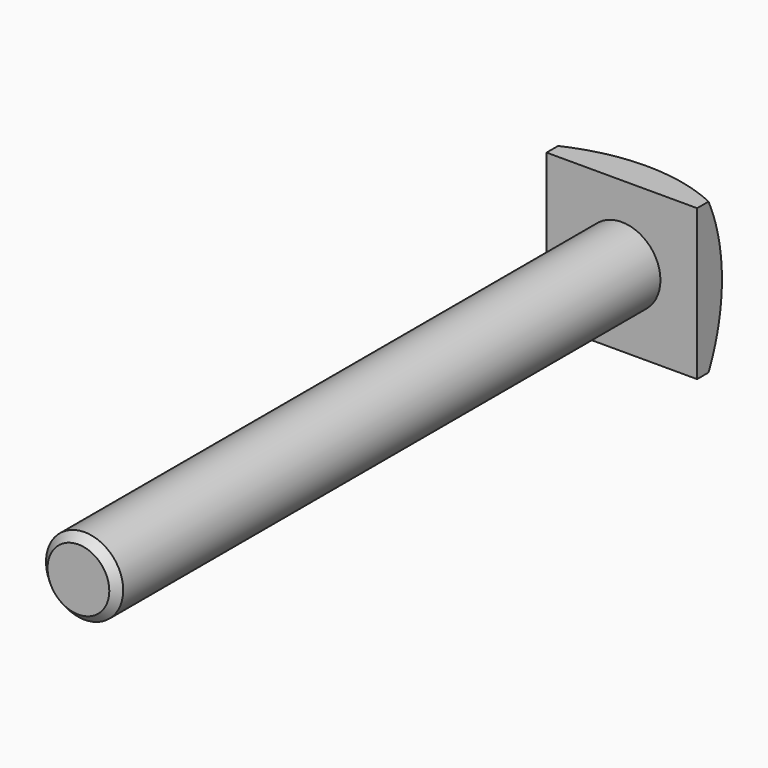
from build123d import *

# Parameters (mm, degrees)
F0_W     = 19.5
F0_H     = 19.5
F1_DEPTH = 6
F2_R     = 5
F3_DEPTH = 88
F4_SIZE  = 1


with BuildPart() as f1:
    # F0 (on Front) → F1 (new body)
    with BuildSketch(Plane.XZ):
        Rectangle(F0_W, F0_H)
    extrude(amount=F1_DEPTH)

    # F2 (on face) → F3 (join)
    with BuildSketch(Plane.XZ.offset(6)):
        Circle(F2_R)
    extrude(amount=F3_DEPTH)

    # F4
    f4_edges = [f1.edges().sort_by_distance(p)[0] for p in [
        (-5, -94, 0),
    ]]
    chamfer(f4_edges, length=F4_SIZE)

    # F5 (on Top) → F6 (revolve, cut)
    with BuildSketch(Plane.XY):
        with BuildLine():
            ThreePointArc((0, 0), (17.6776695297, -7.3223304703), (25, -25))
            Line((25, -25), (35.5271379938, -25))
            ThreePointArc((35.5271379938, -25), (25.1214801916, 0.1214801916), (0, 10.5271379938))
            Line((0, 10.5271379938), (0, 0))
        make_face()
    revolve(axis=Axis((0, 5.2635689969, 0), (0, -1, 0)), mode=Mode.SUBTRACT)


solid = f1.part
